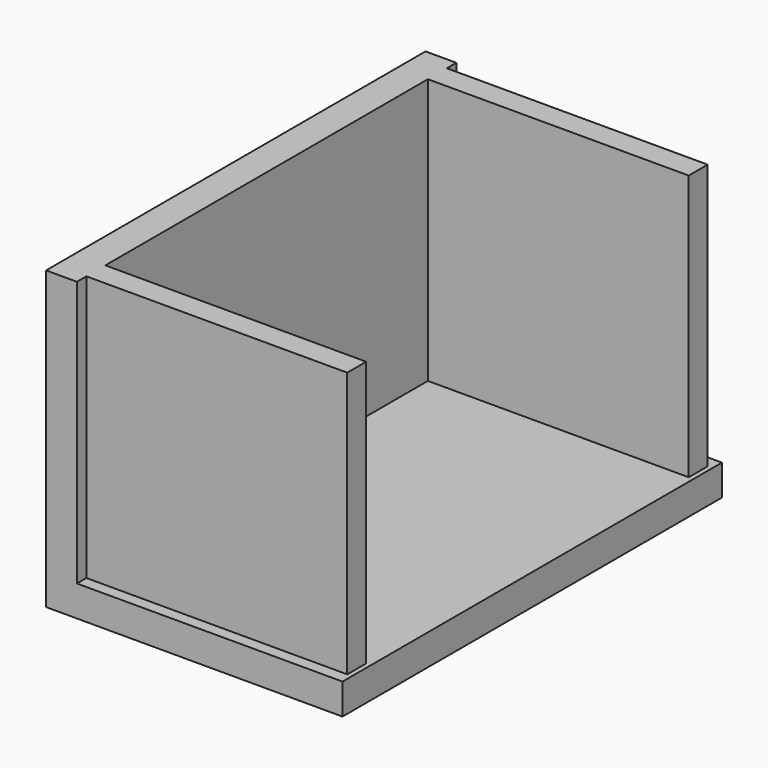
from build123d import *

# Parameters (mm, degrees)
F1_DEPTH = 127
F2_W     = 6.35
F2_H     = 71.12
F3_DEPTH = 69.85


with BuildPart() as f1:
    # F0 (on Front) → F1 (new body)
    with BuildSketch(Plane.XZ):
        Polygon((-43.496815, 38.881797), (-51.751815, 38.881797), (-51.751815, -40.493203), (27.623185, -40.493203), (27.623185, -32.238203), (-43.496815, -32.238203), align=None)
    extrude(amount=F1_DEPTH)

    # F2 (on face) → F3 (join)
    with BuildSketch(Plane.YZ.offset(-43.496815)):
        with Locations((-120.65, 3.321797)):
            Rectangle(F2_W, F2_H)
        with Locations((-6.35, 3.321797)):
            Rectangle(F2_W, F2_H)
    extrude(amount=F3_DEPTH)


solid = f1.part
